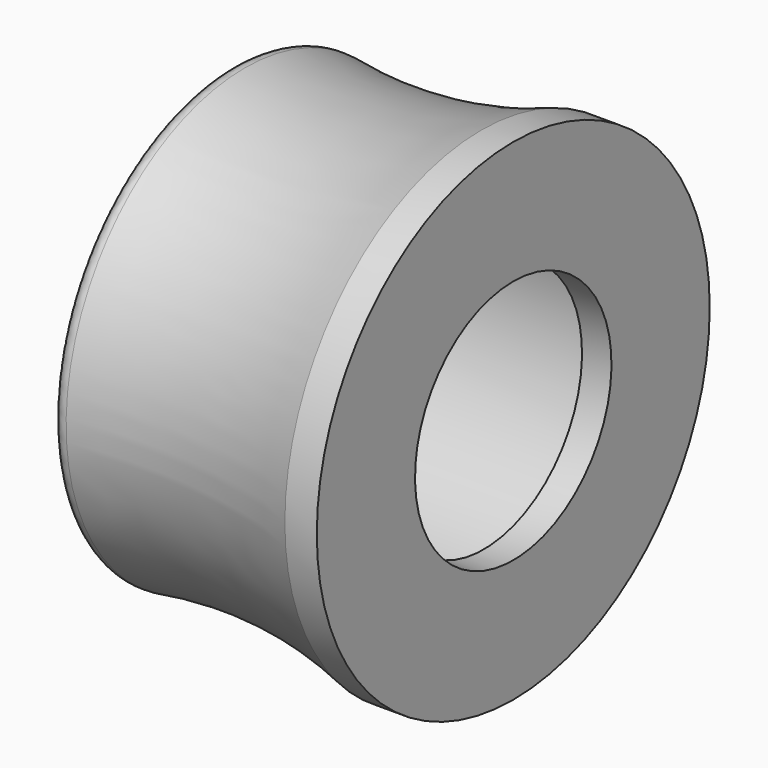
from build123d import *

# Parameters (mm, degrees)
HOLE001_D           = 10
HOLE001_CBORE_D     = 14.5
HOLE001_CBORE_DEPTH = 10.3
FILLET001_R         = 0.5


with BuildPart() as part:
    # Sketch011 → Revolution003 (revolve)
    with BuildSketch(Plane.XZ):
        with BuildLine():
            Line((0, 0), (-11.5, 0))
            Line((-11.5, 0), (-11.5, 9.2))
            ThreePointArc((-11.5, 9.2), (-6.347978, 8.936721), (-1.3, 10))
            Line((0, 10), (-1.3, 10))
            Line((0, 0), (0, 10))
        make_face()
    revolve(axis=Axis((0, 0, 0), (1, 0, 0)))

    # Hole001 (through all)
    with Locations(Plane(origin=(-11.5, 0, 0), x_dir=(0, 0, -1), z_dir=(-1, 0, 0))):
        with Locations((0, 0)):
            CounterBoreHole(HOLE001_D / 2, HOLE001_CBORE_D / 2, HOLE001_CBORE_DEPTH)

    # Fillet001
    fillet001_edges = [part.edges().sort_by_distance(p)[0] for p in [
        (-11.5, 0, -9.2),
    ]]
    fillet(fillet001_edges, radius=FILLET001_R)


solid = part.part
